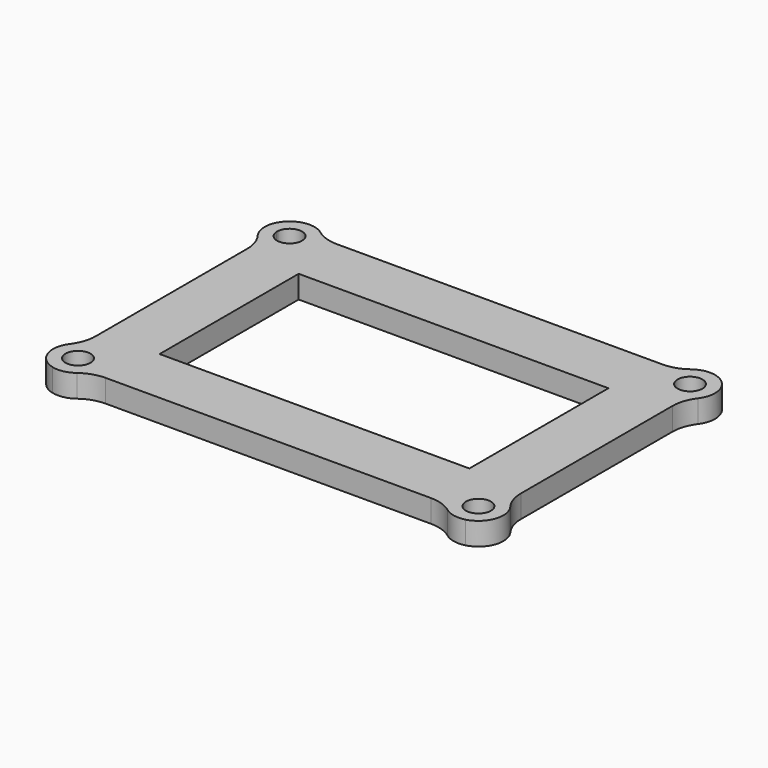
from build123d import *

# Parameters (mm, degrees)
F0_W     = 47
F0_H     = 29
F1_DEPTH = 3
F0_R     = 1.65
F2_DEPTH = 3
F3_W     = 41
F3_H     = 23
F4_DEPTH = 3.001


with BuildPart() as f1:
    # F0 (on Top) → F1 (new body)
    with BuildSketch(Plane.XY):
        with Locations((0, 14.5)):
            Rectangle(F0_W, F0_H)
    extrude(amount=F1_DEPTH)

    # F0 (on Top) → F2 (join)
    with BuildSketch(Plane.XY):
        with BuildLine():
            ThreePointArc((-21.533361, 33.65), (-23.10973, 33.904996), (-24.525312, 34.643976))
            ThreePointArc((-24.525312, 34.643976), (-28.834444, 34.33246), (-29.142296, 30.023065))
            ThreePointArc((-29.142296, 30.023065), (-28.401441, 28.606095), (-28.145774, 27.027708))
            Line((-28.145774, 27.027708), (-28.145774, 1.972292))
            ThreePointArc((-28.145774, 1.972292), (-28.401441, 0.393905), (-29.142296, -1.023065))
            ThreePointArc((-29.142296, -1.023065), (-29.617954, -4.080909), (-27.351685, -6.188202))
            ThreePointArc((-27.351685, -6.188202), (-25.876037, -6.240474), (-24.525312, -5.643976))
            ThreePointArc((-24.525312, -5.643976), (-23.10973, -4.904996), (-21.533361, -4.65))
            Line((-21.533361, -4.65), (21.533361, -4.65))
            ThreePointArc((21.533361, -4.65), (23.10973, -4.904996), (24.525312, -5.643976))
            ThreePointArc((24.525312, -5.643976), (25.876037, -6.240474), (27.351685, -6.188202))
            ThreePointArc((27.351685, -6.188202), (29.617954, -4.080909), (29.142296, -1.023065))
            ThreePointArc((29.142296, -1.023065), (28.401441, 0.393905), (28.145774, 1.972292))
            Line((28.145774, 1.972292), (28.145774, 27.027708))
            ThreePointArc((28.145774, 27.027708), (28.401441, 28.606095), (29.142296, 30.023065))
            ThreePointArc((29.142296, 30.023065), (28.834444, 34.33246), (24.525312, 34.643976))
            ThreePointArc((24.525312, 34.643976), (23.10973, 33.904996), (21.533361, 33.65))
            Line((21.533361, 33.65), (-21.533361, 33.65))
        make_face()
        with Locations((-26.5, -3)):
            Circle(F0_R, mode=Mode.SUBTRACT)
        with Locations((26.5, -3)):
            Circle(F0_R, mode=Mode.SUBTRACT)
        with BuildLine():
            ThreePointArc((-28.145774, 32.118016), (-26.440954, 33.648943), (-24.85, 32))
            ThreePointArc((-24.85, 32), (-26.440954, 30.351057), (-28.145774, 31.881984))
            ThreePointArc((-28.145774, 31.881984), (-28.15, 32), (-28.145774, 32.118016))
        make_face(mode=Mode.SUBTRACT)
        with Locations((0, 14.5)):
            Rectangle(F0_W, F0_H, mode=Mode.SUBTRACT)
        with BuildLine():
            ThreePointArc((28.145774, 32.118016), (28.148943, 32.059046), (28.15, 32))
            ThreePointArc((28.15, 32), (28.148943, 31.940954), (28.145774, 31.881984))
            ThreePointArc((28.145774, 31.881984), (24.85, 32), (28.145774, 32.118016))
        make_face(mode=Mode.SUBTRACT)
    extrude(amount=F2_DEPTH)

    # F3 (on face) → F4 (cut, through all)
    with BuildSketch(Plane.XY.offset(3)):
        with Locations((0, 14.5)):
            Rectangle(F3_W, F3_H)
    extrude(amount=-F4_DEPTH, mode=Mode.SUBTRACT)


solid = f1.part
